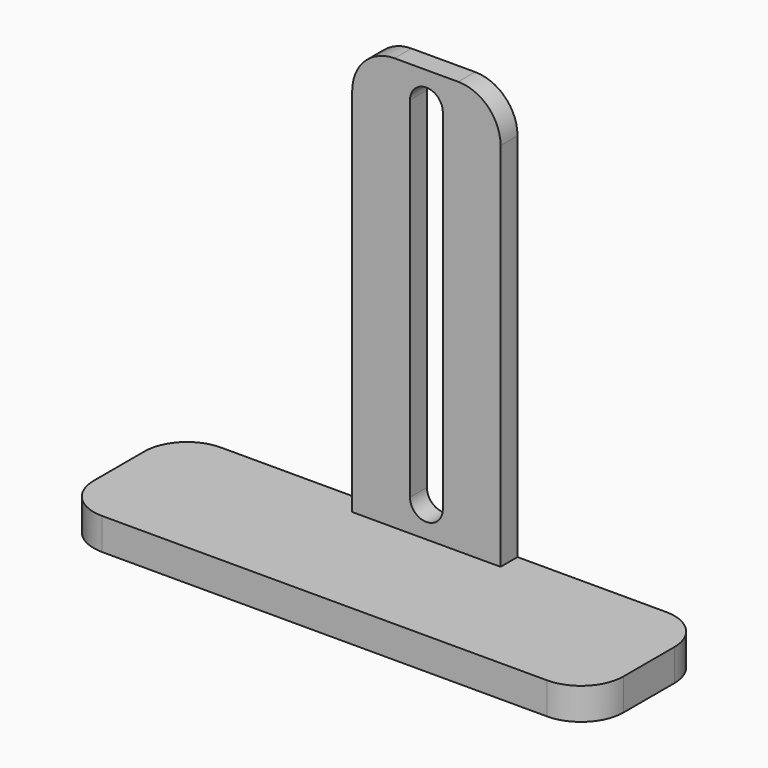
from build123d import *

# Parameters (mm, degrees)
SKETCH_W     = 50
SKETCH_H     = 14
PAD_DEPTH    = 3
SKETCH001_W  = 14
SKETCH001_H  = 2
PAD001_DEPTH = 39
POCKET_DEPTH = 2
FILLET_R     = 4


with BuildPart() as part:
    # Sketch → Pad (new body)
    with BuildSketch(Plane.XY):
        with Locations((25, 7)):
            Rectangle(SKETCH_W, SKETCH_H)
    extrude(amount=PAD_DEPTH)

    # Sketch001 (on Face6 of Pad) → Pad001 (join)
    with BuildSketch(Plane.XY.offset(3)):
        with Locations((25, 13)):
            Rectangle(SKETCH001_W, SKETCH001_H)
    extrude(amount=PAD001_DEPTH)

    # Sketch002 (on Face8 of Pad001) → Pocket (cut)
    with BuildSketch(Plane.XZ.offset(-12)):
        with BuildLine():
            ThreePointArc((26.55, 39), (25, 40.55), (23.45, 39))
            Line((23.45, 39), (23.45, 6))
            ThreePointArc((23.45, 6), (25, 4.45), (26.55, 6))
            Line((26.55, 39), (26.55, 6))
        make_face()
    extrude(amount=-POCKET_DEPTH, mode=Mode.SUBTRACT)

    # Fillet
    fillet_edges = [part.edges().sort_by_distance(p)[0] for p in [
        (0, 0, 1.5),
        (50, 0, 1.5),
        (18, 13, 42),
        (32, 13, 42),
        (0, 14, 1.5),
        (50, 14, 1.5),
    ]]
    fillet(fillet_edges, radius=FILLET_R)


solid = part.part
